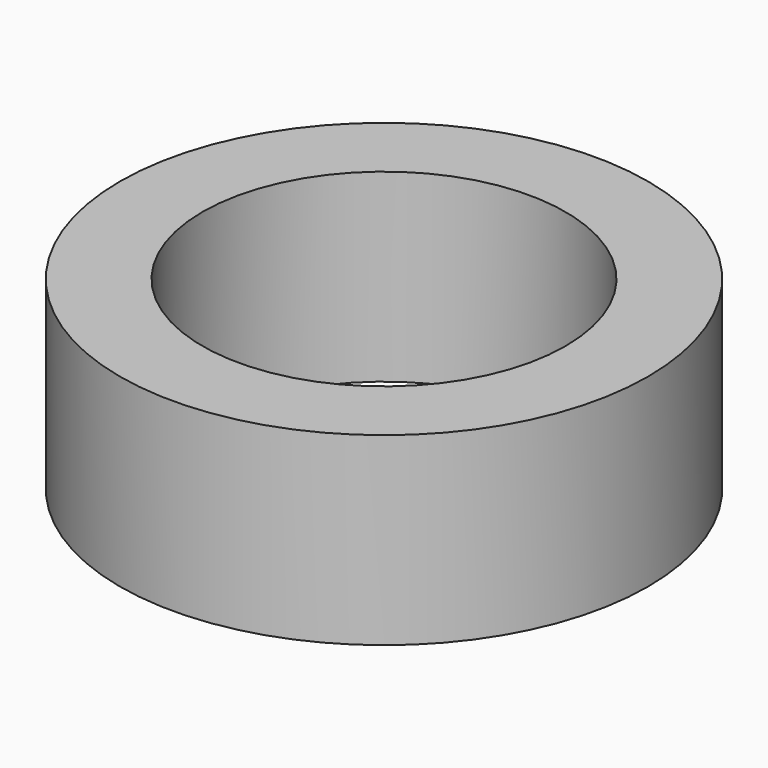
from build123d import *

# Parameters (mm, degrees)
SKETCH_R   = 4
SKETCH_R_2 = 2.75
PAD_DEPTH  = 2.8


with BuildPart() as part:
    # Sketch → Pad (new body)
    with BuildSketch(Plane.XY):
        Circle(SKETCH_R)
        Circle(SKETCH_R_2, mode=Mode.SUBTRACT)
    extrude(amount=PAD_DEPTH)


solid = part.part
